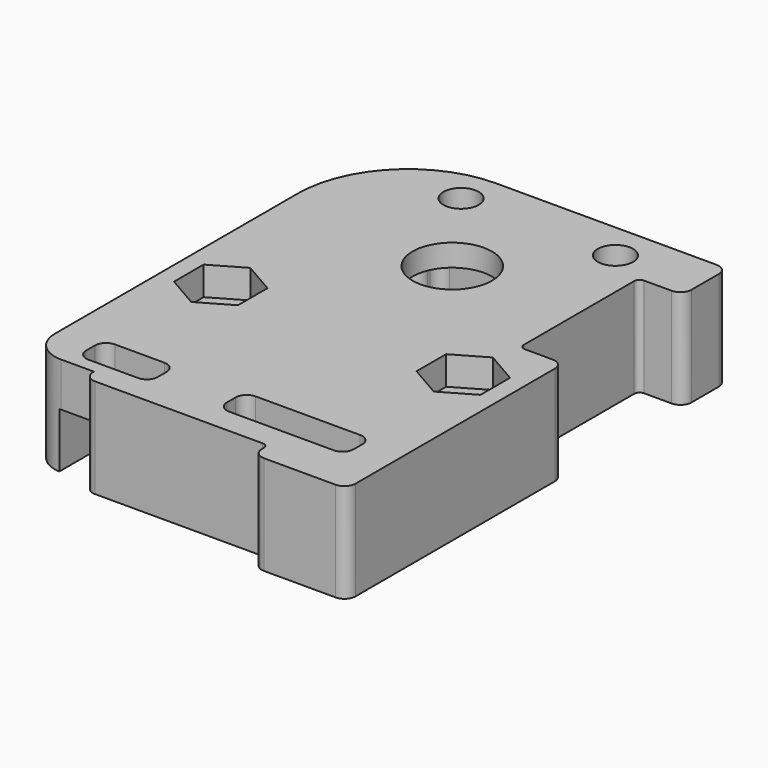
from build123d import *

# Parameters (mm, degrees)
SKETCH_R        = 3.6
SKETCH_R_2      = 1.6
SKETCH_W        = 6.5
SKETCH_H        = 3
SKETCH_W_2      = 11.5
PAD_DEPTH       = 9
POCKET_DEPTH    = 2.6
POCKET001_DEPTH = 7
SKETCH003_W     = 25.7
SKETCH003_H     = 13
POCKET002_DEPTH = 3
SKETCH004_R     = 1.8
POCKET003_DEPTH = 2
FILLET_R        = 10
FILLET001_R     = 0.99
FILLET002_R     = 1
FILLET003_R     = 0.5


with BuildPart() as part:
    # Sketch → Pad (new body)
    with BuildSketch(Plane.XY):
        with BuildLine():
            Line((15.5, -31.35), (15.5, -6.75))
            Line((15.5, -6.75), (11.5, -6.75))
            Line((11.5, -6.75), (11.5, 6.75))
            Line((11.5, 6.75), (15.5, 6.75))
            Line((15.5, 6.75), (15.5, 11.85))
            Line((15.5, 11.85), (-15.5, 11.85))
            Line((-15.5, 11.85), (-15.5, -25.7))
            ThreePointArc((-15.5, -25.7), (-14.679899, -27.679899), (-12.7, -28.5))
            Line((-9.7, -28.5), (-12.7, -28.5))
            Line((-9.7, -29.62), (-9.7, -28.5))
            Line((-9.7, -29.62), (7, -29.62))
            Line((7, -29.62), (7, -31.35))
            Line((7, -31.35), (15.5, -31.35))
        make_face()
        Circle(SKETCH_R, mode=Mode.SUBTRACT)
        with Locations((-11, -12.5)):
            Circle(SKETCH_R_2, mode=Mode.SUBTRACT)
        with Locations((11, -12.5)):
            Circle(SKETCH_R_2, mode=Mode.SUBTRACT)
        with Locations((-6, 8.5)):
            Circle(SKETCH_R_2, mode=Mode.SUBTRACT)
        with Locations((8, 8.5)):
            Circle(SKETCH_R_2, mode=Mode.SUBTRACT)
        with Locations((-8.91, -25.81)):
            Rectangle(SKETCH_W, SKETCH_H, mode=Mode.SUBTRACT)
        with Locations((6.35, -25.81)):
            Rectangle(SKETCH_W_2, SKETCH_H, mode=Mode.SUBTRACT)
    extrude(amount=PAD_DEPTH)

    # Sketch001 (on Face28 of Pad) → Pocket (cut)
    with BuildSketch(Plane.XY.offset(9)):
        Polygon((-8.1, -14.174316), (-8.1, -10.825684), (-11, -9.151368), (-13.9, -10.825684), (-13.9, -14.174316), (-11, -15.848632), align=None)
        Polygon((13.9, -14.174316), (13.9, -10.825684), (11, -9.151368), (8.1, -10.825684), (8.1, -14.174316), (11, -15.848632), align=None)
    extrude(amount=-POCKET_DEPTH, mode=Mode.SUBTRACT)

    # Sketch002 → Pocket001 (cut)
    with BuildSketch(Plane(origin=(0, 0, 0), x_dir=(1, 0, 0), z_dir=(0, 0, -1))):
        Polygon((8.25, -4), (6.25, -4), (6.25, -6.25), (-6.25, -6.25), (-6.25, -4), (-8.25, -4), (-8.25, 4), (-6.25, 4), (-6.25, 6.25), (6.25, 6.25), (6.25, 4), (8.25, 4), align=None)
    extrude(amount=-POCKET001_DEPTH, mode=Mode.SUBTRACT)

    # Sketch003 → Pocket002 (cut)
    with BuildSketch(Plane(origin=(0, 0, 0), x_dir=(1, 0, 0), z_dir=(0, 0, -1))):
        with Locations((0, 22)):
            Rectangle(SKETCH003_W, SKETCH003_H)
    extrude(amount=-POCKET002_DEPTH, mode=Mode.SUBTRACT)

    # Sketch004 (on Face57 of Pocket002) → Pocket003 (cut)
    with BuildSketch(Plane(origin=(0, 0, 3), x_dir=(1, 0, 0), z_dir=(0, 0, -1))):
        with Locations((0, 22)):
            Circle(SKETCH004_R)
        with BuildLine():
            Line((1.5, 15.5), (12.85, 15.5))
            Line((12.85, 15.5), (12.85, 20.5))
            Line((12.85, 20.5), (3.5, 20.5))
            ThreePointArc((3.5, 20.5), (2.085786, 19.914214), (1.5, 18.5))
            Line((1.5, 18.5), (1.5, 15.5))
        make_face()
        with BuildLine():
            Line((-1.5, 15.5), (-12.85, 15.5))
            Line((-12.85, 15.5), (-12.85, 20.5))
            Line((-12.85, 20.5), (-3.5, 20.5))
            ThreePointArc((-1.5, 18.5), (-2.085786, 19.914214), (-3.5, 20.5))
            Line((-1.5, 18.5), (-1.5, 15.5))
        make_face()
        with BuildLine():
            Line((12.85, 23.5), (3.5, 23.5))
            ThreePointArc((1.5, 25.5), (2.085786, 24.085786), (3.5, 23.5))
            Line((1.5, 25.5), (1.5, 28.5))
            Line((1.5, 28.5), (12.85, 28.5))
            Line((12.85, 28.5), (12.85, 23.5))
        make_face()
        with BuildLine():
            Line((-12.85, 23.5), (-3.5, 23.5))
            ThreePointArc((-3.5, 23.5), (-2.085786, 24.085786), (-1.5, 25.5))
            Line((-1.5, 25.5), (-1.5, 28.5))
            Line((-1.5, 28.5), (-12.85, 28.5))
            Line((-12.85, 28.5), (-12.85, 23.5))
        make_face()
    extrude(amount=-POCKET003_DEPTH, mode=Mode.SUBTRACT)

    # Fillet
    fillet_edges = [part.edges().sort_by_distance(p)[0] for p in [
        (-15.5, 11.85, 4.5),
    ]]
    fillet(fillet_edges, radius=FILLET_R)

    # Fillet001
    fillet001_edges = [part.edges().sort_by_distance(p)[0] for p in [
        (6.25, -4, 3.5),
        (6.25, -6.25, 3.5),
        (8.25, -4, 3.5),
        (8.25, 4, 3.5),
        (6.25, 4, 3.5),
        (6.25, 6.25, 3.5),
        (-6.25, 6.25, 3.5),
        (-6.25, 4, 3.5),
        (-8.25, 4, 3.5),
        (-8.25, -4, 3.5),
        (-6.25, -4, 3.5),
        (-6.25, -6.25, 3.5),
    ]]
    fillet(fillet001_edges, radius=FILLET001_R)

    # Fillet002
    fillet002_edges = [part.edges().sort_by_distance(p)[0] for p in [
        (15.5, 11.85, 4.5),
        (15.5, -6.75, 4.5),
        (15.5, 6.75, 4.5),
        (15.5, -31.35, 4.5),
        (7, -31.35, 4.5),
        (-9.7, -29.62, 4.5),
        (0.6, -27.31, 6),
        (-12.16, -27.31, 7),
        (-5.66, -27.31, 7),
        (12.1, -27.31, 7),
        (-12.16, -24.31, 7),
        (-5.66, -24.31, 7),
        (12.1, -24.31, 7),
        (0.6, -24.31, 6),
    ]]
    fillet(fillet002_edges, radius=FILLET002_R)

    # Fillet003
    fillet003_edges = [part.edges().sort_by_distance(p)[0] for p in [
        (11.5, 6.75, 4.5),
        (11.5, -6.75, 4.5),
        (7, -29.62, 4.5),
        (12.85, -15.5, 1.5),
        (12.85, -15.5, 4),
        (12.85, -23.5, 4),
        (12.85, -20.5, 4),
        (12.85, -28.5, 1.5),
        (12.85, -28.5, 4),
        (-12.85, -15.5, 1.5),
        (-12.85, -15.5, 4),
        (-12.85, -23.5, 4),
        (-12.85, -20.5, 4),
        (1.5, -27.304987, 4),
        (1.892549, -24.31, 4),
        (-1.8, -22, 5),
    ]]
    fillet(fillet003_edges, radius=FILLET003_R)


solid = part.part
